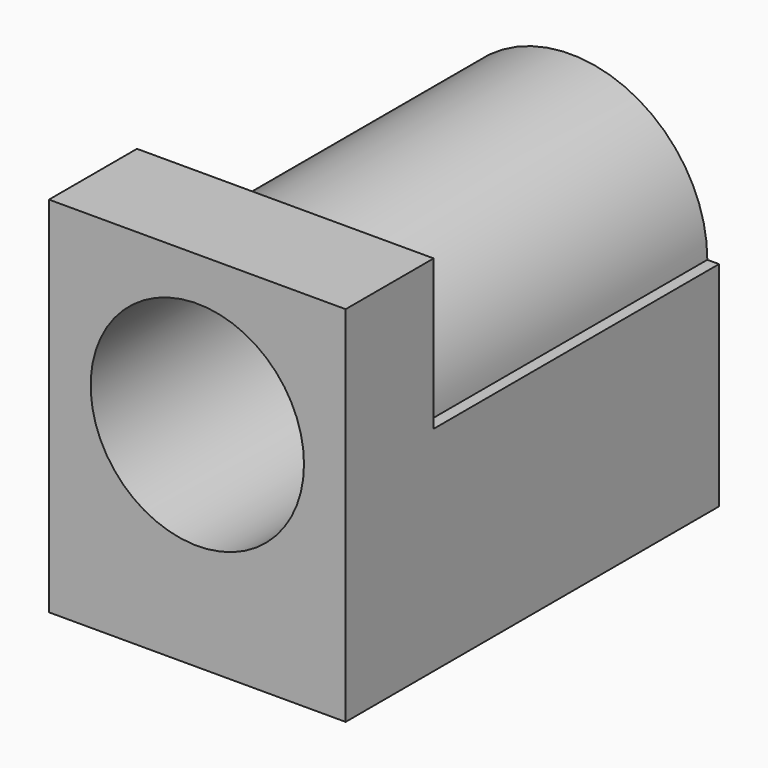
from build123d import *

# Parameters (mm, degrees)
F0_W     = 8.9
F0_H     = 10.9
F1_DEPTH = 3.3
F3_DEPTH = 10.7
F4_R     = 3.2
F5_DEPTH = 10
F6_W     = 4
F6_H     = 1.5
F7_DEPTH = 1.6


with BuildPart() as f1:
    # F0 (on Front) → F1 (new body)
    with BuildSketch(Plane.XZ):
        with Locations((4.45, 5.45)):
            Rectangle(F0_W, F0_H)
    extrude(amount=F1_DEPTH)

    # F2 (on face) → F3 (join)
    with BuildSketch(Plane(origin=(0, 0, 0), x_dir=(-1, 0, 0), z_dir=(0, 1, 0))):
        with BuildLine():
            Line((-8.55, 6.4), (-8.9, 6.4))
            Line((-8.9, 6.4), (-8.9, 0))
            Line((-8.9, 0), (0, 0))
            Line((0, 0), (0, 6.4))
            Line((0, 6.4), (-0.35, 6.4))
            ThreePointArc((-0.35, 6.4), (-4.45, 10.5), (-8.55, 6.4))
        make_face()
    extrude(amount=F3_DEPTH)

    # F4 (on face) → F5 (cut)
    with BuildSketch(Plane.XZ.offset(3.3)):
        with Locations((4.45, 6.4)):
            Circle(F4_R)
    extrude(amount=-F5_DEPTH, mode=Mode.SUBTRACT)

    # F6 (on face) → F7 (join)
    with BuildSketch(Plane(origin=(0, 0, 0), x_dir=(1, 0, 0), z_dir=(0, 0, -1))):
        with Locations((4.45, -2.45)):
            Rectangle(F6_W, F6_H)
        with Locations((4.45, -9.95)):
            Rectangle(F6_W, F6_H)
    extrude(amount=F7_DEPTH)


solid = f1.part
